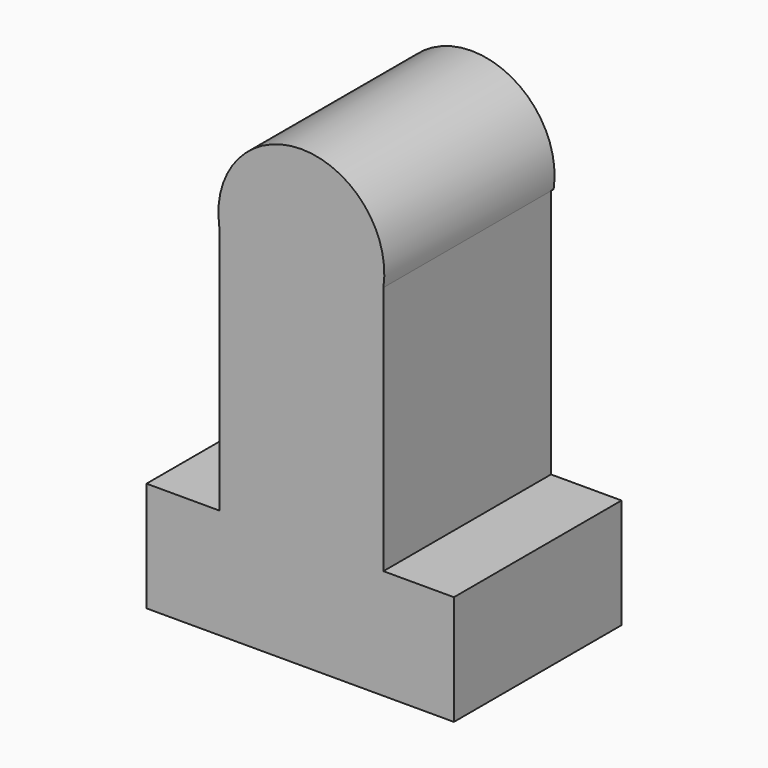
from build123d import *

# Parameters (mm, degrees)
F0_W     = 17.655445
F0_H     = 26.623294
F0_W_2   = 17.094958
F1_DEPTH = 50.8
F3_DEPTH = 51.60418


with BuildPart() as f1:
    # F0 (on Front) → F1 (new body)
    with BuildSketch(Plane.XZ):
        with Locations((-35.73126, -26.623294)):
            Rectangle(F0_W, F0_H)
        Polygon((-26.903538, 47.22131), (-26.903538, -13.311647), (-26.903538, -39.934941), (12.89128, -39.934941), (12.89128, -13.311647), (12.89128, 47.22131), (-8.6876, 69.640927), align=None)
        with Locations((21.438759, -26.623294)):
            Rectangle(F0_W_2, F0_H)
    extrude(amount=F1_DEPTH)

    # F2 (on face) → F3 (join)
    with BuildSketch(Plane.XZ.offset(50.8)):
        with BuildLine():
            Line((-8.6876, 69.640927), (12.89128, 47.22131))
            ThreePointArc((12.89128, 47.22131), (-7.006129, 70.326719), (-26.903538, 47.22131))
            Line((-26.903538, 47.22131), (-8.6876, 69.640927))
        make_face()
    extrude(amount=-F3_DEPTH)


solid = f1.part
